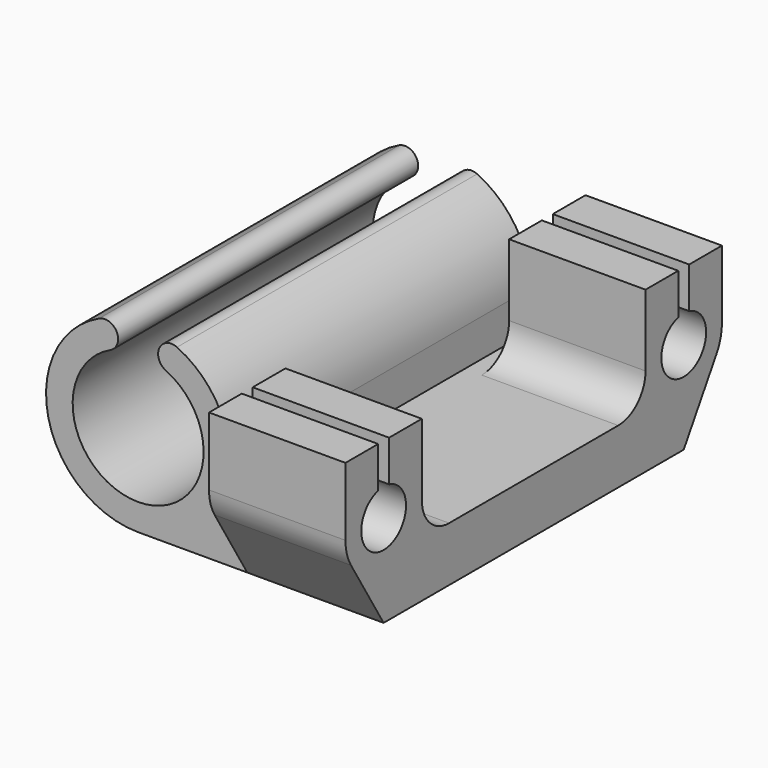
from build123d import *

# Parameters (mm, degrees)
F1_DEPTH = 27.5
F3_DEPTH = 20


with BuildPart() as f1:
    # F0 (on Front) → F1 (new body, symmetric)
    with BuildSketch(Plane.XZ):
        with BuildLine():
            ThreePointArc((4.057135, 8.700555), (0, -9.6), (-4.057135, 8.700555))
            ThreePointArc((-4.057135, 8.700555), (-3.113941, 11.291961), (-5.705347, 12.235155))
            ThreePointArc((-5.705347, 12.235155), (-13.179996, -2.921935), (0, -13.5))
            Line((0, -13.5), (36, -13.5))
            Line((36, -13.5), (36, -5.5))
            Line((36, -5.5), (13.5, -5.5))
            Line((13.5, -5.5), (13.5, 0))
            ThreePointArc((13.5, 0), (11.385785, 7.253545), (5.705347, 12.235155))
            ThreePointArc((5.705347, 12.235155), (3.113941, 11.291961), (4.057135, 8.700555))
        make_face()
    extrude(amount=F1_DEPTH, both=True)

    # F2 (on face) → F3 (join)
    with BuildSketch(Plane.YZ.offset(36)):
        with BuildLine():
            ThreePointArc((-26.5, 3.976179), (-27.5, -4.1), (-28.5, 3.976179))
            Line((-28.5, 3.976179), (-28.5, 10))
            Line((-28.5, 10), (-34.5, 10))
            Line((-34.5, 10), (-34.5, 0))
            ThreePointArc((-34.5, 0), (-34.241597, -1.884376), (-33.485465, -3.62963))
            Line((-33.485465, -3.62963), (-27.5, -13.5))
            Line((-27.5, -13.5), (0, -13.5))
            Line((0, -13.5), (27.5, -13.5))
            Line((27.5, -13.5), (33.485465, -3.62963))
            ThreePointArc((33.485465, -3.62963), (34.241597, -1.884376), (34.5, 0))
            Line((34.5, 0), (34.5, 10))
            Line((34.5, 10), (28.5, 10))
            Line((28.5, 10), (28.5, 3.976179))
            ThreePointArc((28.5, 3.976179), (27.5, -4.1), (26.5, 3.976179))
            Line((26.5, 3.976179), (26.5, 10))
            Line((26.5, 10), (20.5, 10))
            Line((20.5, 10), (20.5, 0))
            Line((20.5, 0), (20.5, -0.5))
            ThreePointArc((20.5, -0.5), (19.035534, -4.035534), (15.5, -5.5))
            Line((15.5, -5.5), (0, -5.5))
            Line((0, -5.5), (-15.5, -5.5))
            ThreePointArc((-15.5, -5.5), (-19.035534, -4.035534), (-20.5, -0.5))
            Line((-20.5, -0.5), (-20.5, 0))
            Line((-20.5, 0), (-20.5, 10))
            Line((-20.5, 10), (-26.5, 10))
            Line((-26.5, 10), (-26.5, 3.976179))
        make_face()
    extrude(amount=-F3_DEPTH)


solid = f1.part
